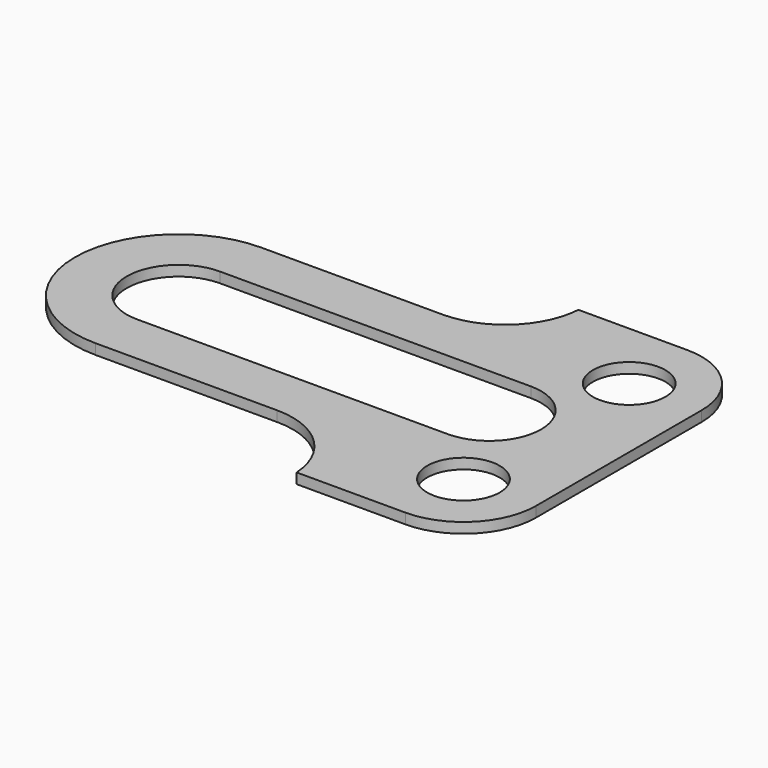
from build123d import *

# Parameters (mm, degrees)
SKETCH_R  = 7
PAD_DEPTH = 2


with BuildPart() as part:
    # Sketch → Pad (new body)
    with BuildSketch(Plane.XY):
        with BuildLine():
            Line((-10, 34), (11, 34))
            ThreePointArc((25, 20), (20.899495, 29.899495), (11, 34))
            Line((25, 20), (25, -20))
            ThreePointArc((11, -34), (20.899495, -29.899495), (25, -20))
            Line((11, -34), (-10, -34))
            ThreePointArc((-10, -34), (-14.719679, -24.045549), (-24.96663, -20))
            Line((-24.96663, -20), (-60.000002, -20))
            ThreePointArc((-60.000002, 20), (-80, 0), (-60.000002, -20))
            Line((-60.000002, 20), (-24.96663, 20))
            ThreePointArc((-24.96663, 20), (-14.719679, 24.045549), (-10, 34))
        make_face()
        with Locations((11, 20)):
            Circle(SKETCH_R, mode=Mode.SUBTRACT)
        with Locations((11, -20)):
            Circle(SKETCH_R, mode=Mode.SUBTRACT)
        with BuildLine():
            ThreePointArc((-60.000002, 10), (-70, 0), (-60.000002, -10))
            Line((-60.000002, -10), (0, -10))
            ThreePointArc((0, -10), (10, 0), (0, 10))
            Line((-60.000002, 10), (0, 10))
        make_face(mode=Mode.SUBTRACT)
    extrude(amount=PAD_DEPTH)


solid = part.part
